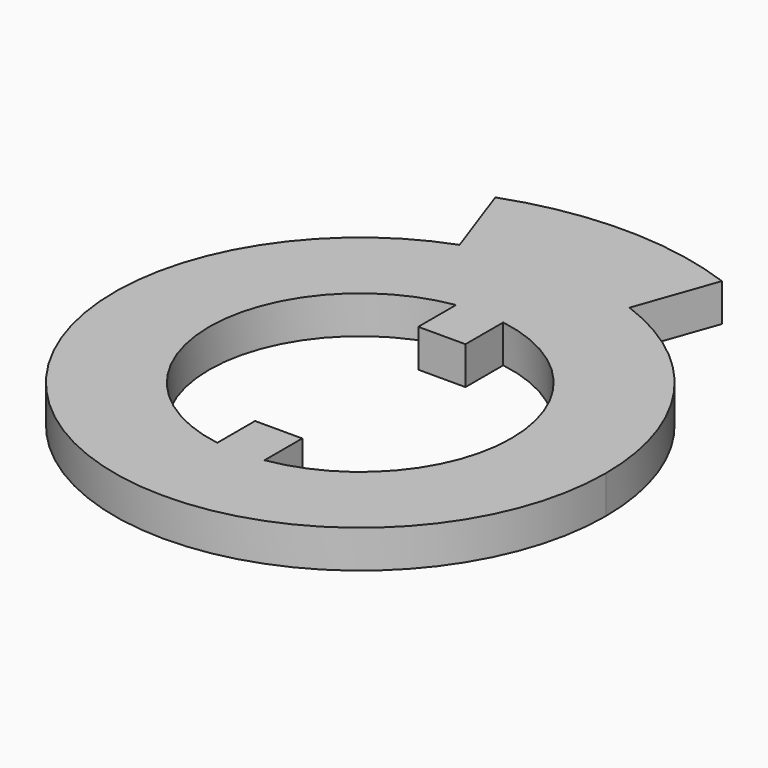
from build123d import *

# Parameters (mm, degrees)
F1_DEPTH = 2


with BuildPart() as f1:
    # F0 (on Top) → F1 (new body)
    with BuildSketch(Plane.XY):
        with BuildLine():
            ThreePointArc((-4.5, 12.196311), (-7.433034, -10.665365), (13, 0))
            ThreePointArc((13, 0), (10.665365, 7.433034), (4.5, 12.196311))
            ThreePointArc((4.5, 12.196311), (0, 13), (-4.5, 12.196311))
        make_face()
        with BuildLine():
            ThreePointArc((-1.25, -7.90174), (-8, 0), (-1.25, 7.90174))
            Line((-1.25, 7.90174), (-1.25, 5.40174))
            Line((-1.25, 5.40174), (1.25, 5.40174))
            Line((1.25, 5.40174), (1.25, 7.90174))
            ThreePointArc((1.25, 7.90174), (8, 0), (1.25, -7.90174))
            Line((1.25, -7.90174), (1.25, -5.40174))
            Line((1.25, -5.40174), (-1.25, -5.40174))
            Line((-1.25, -5.40174), (-1.25, -7.90174))
        make_face(mode=Mode.SUBTRACT)
        with BuildLine():
            ThreePointArc((-4.5, 12.196311), (0, 13), (4.5, 12.196311))
            Line((4.5, 12.196311), (6, 16.439282))
            ThreePointArc((6, 16.439282), (0, 17.5), (-6, 16.439282))
            Line((-6, 16.439282), (-4.5, 12.196311))
        make_face()
    extrude(amount=F1_DEPTH)


solid = f1.part
